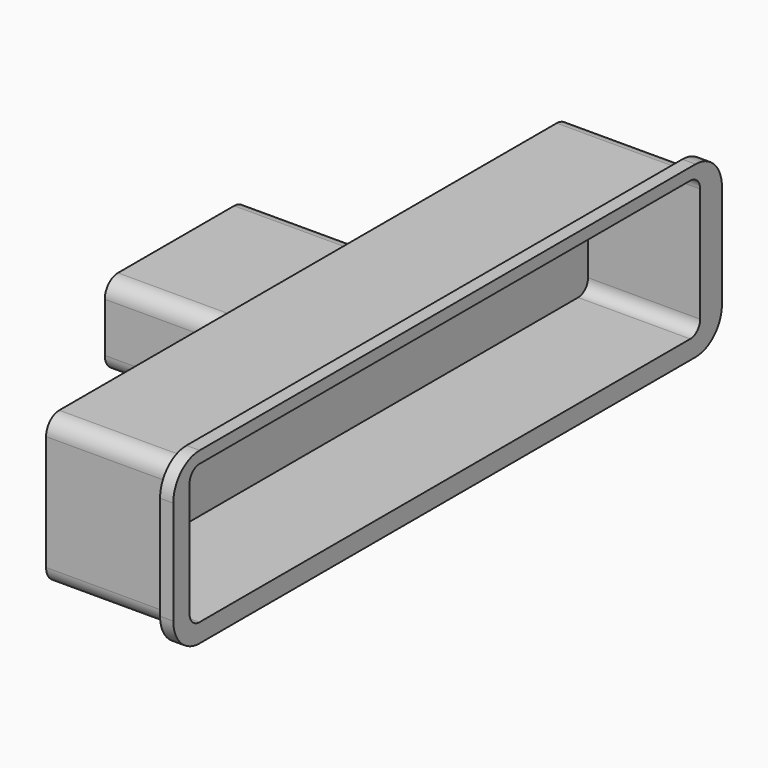
from build123d import *

# Parameters (mm, degrees)
F1_DEPTH = 13
F2_DEPTH = 1.6
F3_START = -12
F3_DEPTH = 3
F4_START = -12
F0_W     = 17.8
F0_H     = 7.2
F4_DEPTH = 19


with BuildPart() as f1:
    # F0 (on Right) → F1 (new body)
    with BuildSketch(Plane.YZ):
        with BuildLine():
            Line((37.7, 8.983691223), (-36.7, 8.983691223))
            Line((-36.7, 8.983691223), (-37.7, 8.983691223))
            ThreePointArc((-37.7, 8.983691223), (-39.1142135624, 8.3979047853), (-39.7, 6.983691223))
            Line((-39.7, 6.983691223), (-39.7, 5.983691223))
            Line((-39.7, 5.983691223), (-39.7, -6.983691223))
            ThreePointArc((-39.7, -6.983691223), (-39.1142135624, -8.3979047853), (-37.7, -8.983691223))
            Line((-37.7, -8.983691223), (37.7, -8.983691223))
            ThreePointArc((37.7, -8.983691223), (39.1142135624, -8.3979047853), (39.7, -6.983691223))
            Line((39.7, -6.983691223), (39.7, 6.983691223))
            ThreePointArc((39.7, 6.983691223), (39.1142135624, 8.3979047853), (37.7, 8.983691223))
        make_face()
        with BuildLine():
            Line((37.2, -8.45), (-37.2, -8.45))
            ThreePointArc((-37.2, -8.45), (-38.2606601718, -8.0106601718), (-38.7, -6.95))
            Line((-38.7, -6.95), (-38.7, 6.95))
            ThreePointArc((-38.7, 6.95), (-38.2606601718, 8.0106601718), (-37.2, 8.45))
            Line((-37.2, 8.45), (37.2, 8.45))
            ThreePointArc((37.2, 8.45), (38.2606601718, 8.0106601718), (38.7, 6.95))
            Line((38.7, 6.95), (38.7, -6.95))
            ThreePointArc((38.7, -6.95), (38.2606601718, -8.0106601718), (37.2, -8.45))
        make_face(mode=Mode.SUBTRACT)
    extrude(amount=-F1_DEPTH)

    # F0 (on Right) → F2 (join)
    with BuildSketch(Plane.YZ):
        with BuildLine():
            ThreePointArc((-41.17091404, -6.71898761), (-39.9993411647, -9.5474147347), (-37.17091404, -10.71898761))
            Line((-37.17091404, -10.71898761), (37.99908596, -10.71898761))
            ThreePointArc((37.99908596, -10.71898761), (40.8275130848, -9.5474147347), (41.99908596, -6.71898761))
            Line((41.99908596, -6.71898761), (41.99908596, 5.884703613))
            ThreePointArc((41.99908596, 5.884703613), (40.8275130848, 8.7131307377), (37.99908596, 9.884703613))
            Line((37.99908596, 9.884703613), (-37.17091404, 9.884703613))
            ThreePointArc((-37.17091404, 9.884703613), (-39.9993411647, 8.7131307377), (-41.17091404, 5.884703613))
            Line((-41.17091404, 5.884703613), (-41.17091404, -6.71898761))
        make_face()
        with BuildLine():
            Line((-37.7, 8.983691223), (-36.7, 8.983691223))
            Line((-36.7, 8.983691223), (37.7, 8.983691223))
            ThreePointArc((37.7, 8.983691223), (39.1142135624, 8.3979047853), (39.7, 6.983691223))
            Line((39.7, 6.983691223), (39.7, -6.983691223))
            ThreePointArc((39.7, -6.983691223), (39.1142135624, -8.3979047853), (37.7, -8.983691223))
            Line((37.7, -8.983691223), (-37.7, -8.983691223))
            ThreePointArc((-37.7, -8.983691223), (-39.1142135624, -8.3979047853), (-39.7, -6.983691223))
            Line((-39.7, -6.983691223), (-39.7, 5.983691223))
            Line((-39.7, 5.983691223), (-39.7, 6.983691223))
            ThreePointArc((-39.7, 6.983691223), (-39.1142135624, 8.3979047853), (-37.7, 8.983691223))
        make_face(mode=Mode.SUBTRACT)
        with BuildLine():
            Line((37.7, 8.983691223), (-36.7, 8.983691223))
            Line((-36.7, 8.983691223), (-37.7, 8.983691223))
            ThreePointArc((-37.7, 8.983691223), (-39.1142135624, 8.3979047853), (-39.7, 6.983691223))
            Line((-39.7, 6.983691223), (-39.7, 5.983691223))
            Line((-39.7, 5.983691223), (-39.7, -6.983691223))
            ThreePointArc((-39.7, -6.983691223), (-39.1142135624, -8.3979047853), (-37.7, -8.983691223))
            Line((-37.7, -8.983691223), (37.7, -8.983691223))
            ThreePointArc((37.7, -8.983691223), (39.1142135624, -8.3979047853), (39.7, -6.983691223))
            Line((39.7, -6.983691223), (39.7, 6.983691223))
            ThreePointArc((39.7, 6.983691223), (39.1142135624, 8.3979047853), (37.7, 8.983691223))
        make_face()
        with BuildLine():
            Line((37.2, -8.45), (-37.2, -8.45))
            ThreePointArc((-37.2, -8.45), (-38.2606601718, -8.0106601718), (-38.7, -6.95))
            Line((-38.7, -6.95), (-38.7, 6.95))
            ThreePointArc((-38.7, 6.95), (-38.2606601718, 8.0106601718), (-37.2, 8.45))
            Line((-37.2, 8.45), (37.2, 8.45))
            ThreePointArc((37.2, 8.45), (38.2606601718, 8.0106601718), (38.7, 6.95))
            Line((38.7, 6.95), (38.7, -6.95))
            ThreePointArc((38.7, -6.95), (38.2606601718, -8.0106601718), (37.2, -8.45))
        make_face(mode=Mode.SUBTRACT)
    extrude(amount=F2_DEPTH)

    # F0 (on Right) → F3 (join)
    with BuildSketch(Plane.YZ.offset(F3_START)):
        with BuildLine():
            Line((37.7, 8.983691223), (-36.7, 8.983691223))
            Line((-36.7, 8.983691223), (-37.7, 8.983691223))
            ThreePointArc((-37.7, 8.983691223), (-39.1142135624, 8.3979047853), (-39.7, 6.983691223))
            Line((-39.7, 6.983691223), (-39.7, 5.983691223))
            Line((-39.7, 5.983691223), (-39.7, -6.983691223))
            ThreePointArc((-39.7, -6.983691223), (-39.1142135624, -8.3979047853), (-37.7, -8.983691223))
            Line((-37.7, -8.983691223), (37.7, -8.983691223))
            ThreePointArc((37.7, -8.983691223), (39.1142135624, -8.3979047853), (39.7, -6.983691223))
            Line((39.7, -6.983691223), (39.7, 6.983691223))
            ThreePointArc((39.7, 6.983691223), (39.1142135624, 8.3979047853), (37.7, 8.983691223))
        make_face()
        with BuildLine():
            Line((37.2, -8.45), (-37.2, -8.45))
            ThreePointArc((-37.2, -8.45), (-38.2606601718, -8.0106601718), (-38.7, -6.95))
            Line((-38.7, -6.95), (-38.7, 6.95))
            ThreePointArc((-38.7, 6.95), (-38.2606601718, 8.0106601718), (-37.2, 8.45))
            Line((-37.2, 8.45), (37.2, 8.45))
            ThreePointArc((37.2, 8.45), (38.2606601718, 8.0106601718), (38.7, 6.95))
            Line((38.7, 6.95), (38.7, -6.95))
            ThreePointArc((38.7, -6.95), (38.2606601718, -8.0106601718), (37.2, -8.45))
        make_face(mode=Mode.SUBTRACT)
        with BuildLine():
            ThreePointArc((-38.7, -6.95), (-38.2606601718, -8.0106601718), (-37.2, -8.45))
            Line((-37.2, -8.45), (37.2, -8.45))
            ThreePointArc((37.2, -8.45), (38.2606601718, -8.0106601718), (38.7, -6.95))
            Line((38.7, -6.95), (38.7, 6.95))
            ThreePointArc((38.7, 6.95), (38.2606601718, 8.0106601718), (37.2, 8.45))
            Line((37.2, 8.45), (-37.2, 8.45))
            ThreePointArc((-37.2, 8.45), (-38.2606601718, 8.0106601718), (-38.7, 6.95))
            Line((-38.7, 6.95), (-38.7, -6.95))
        make_face()
        with BuildLine():
            ThreePointArc((10.8, -1.3001189455), (10.2142135624, -2.7143325079), (8.8, -3.3001189455))
            Line((8.8, -3.3001189455), (-8.8, -3.3001189455))
            ThreePointArc((-8.8, -3.3001189455), (-10.2142135624, -2.7143325079), (-10.8, -1.3001189455))
            Line((-10.8, -1.3001189455), (-10.8, 4.6998810545))
            ThreePointArc((-10.8, 4.6998810545), (-10.2142135624, 6.1140946168), (-8.8, 6.6998810545))
            Line((-8.8, 6.6998810545), (8.8, 6.6998810545))
            ThreePointArc((8.8, 6.6998810545), (10.2142135624, 6.1140946168), (10.8, 4.6998810545))
            Line((10.8, 4.6998810545), (10.8, -1.3001189455))
        make_face(mode=Mode.SUBTRACT)
    extrude(amount=-F3_DEPTH)

    # F0 (on Right) → F4 (join)
    with BuildSketch(Plane.YZ.offset(F4_START)):
        with BuildLine():
            Line((-8.8, -3.3001189455), (8.8, -3.3001189455))
            ThreePointArc((8.8, -3.3001189455), (10.2142135624, -2.7143325079), (10.8, -1.3001189455))
            Line((10.8, -1.3001189455), (10.8, 4.6998810545))
            ThreePointArc((10.8, 4.6998810545), (10.2142135624, 6.1140946168), (8.8, 6.6998810545))
            Line((8.8, 6.6998810545), (-8.8, 6.6998810545))
            ThreePointArc((-8.8, 6.6998810545), (-10.2142135624, 6.1140946168), (-10.8, 4.6998810545))
            Line((-10.8, 4.6998810545), (-10.8, -1.3001189455))
            ThreePointArc((-10.8, -1.3001189455), (-10.2142135624, -2.7143325079), (-8.8, -3.3001189455))
        make_face()
        with Locations((0, 1.6998810545)):
            Rectangle(F0_W, F0_H, mode=Mode.SUBTRACT)
    extrude(amount=-F4_DEPTH)


solid = f1.part
